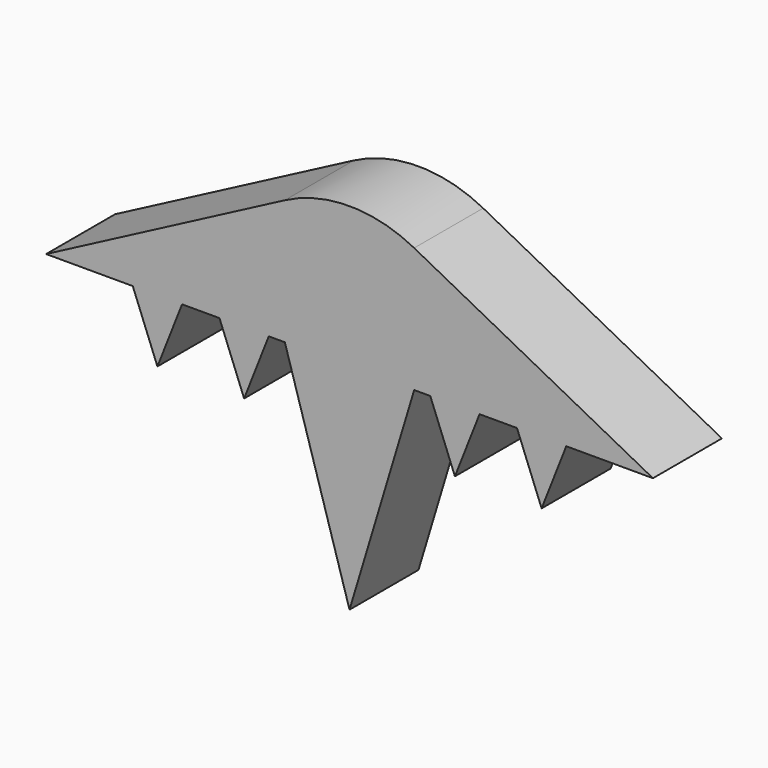
from build123d import *

# Parameters (mm, degrees)
F1_DEPTH = 25.4


with BuildPart() as f1:
    # F0 (on Front) → F1 (new body)
    with BuildSketch(Plane.XZ):
        with BuildLine():
            Line((0, -44.685159), (19.05, 18.493898))
            Line((19.05, 18.493898), (23.792982, 18.493898))
            Line((23.792982, 18.493898), (31.051852, 0))
            Line((31.051852, 0), (38.310722, 18.493898))
            Line((38.310722, 18.493898), (49.333442, 18.493898))
            Line((49.333442, 18.493898), (56.592312, 0))
            Line((56.592312, 0), (63.851181, 18.493898))
            Line((63.851181, 18.493898), (89.391641, 18.493898))
            Line((89.391641, 18.493898), (19.05, 55.325944))
            ThreePointArc((19.05, 55.325944), (0, 60.011648), (-19.05, 55.325944))
            Line((-19.05, 55.325944), (-89.391641, 18.493898))
            Line((-89.391641, 18.493898), (-63.851181, 18.493898))
            Line((-63.851181, 18.493898), (-56.592312, 0))
            Line((-56.592312, 0), (-49.333442, 18.493898))
            Line((-49.333442, 18.493898), (-38.310722, 18.493898))
            Line((-38.310722, 18.493898), (-31.051852, 0))
            Line((-31.051852, 0), (-23.792982, 18.493898))
            Line((-23.792982, 18.493898), (-19.05, 18.493898))
            Line((-19.05, 18.493898), (0, -44.685159))
        make_face()
    extrude(amount=F1_DEPTH)


solid = f1.part
